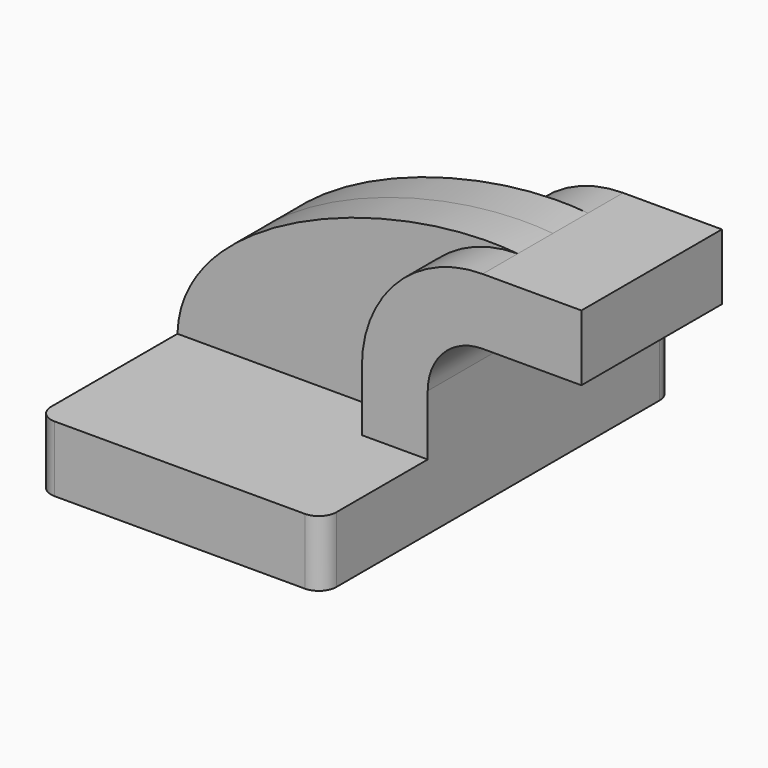
from build123d import *

# Parameters (mm, degrees)
F1_DEPTH = 63.5
F0_W     = 25.4
F0_H     = 19.05
F2_DEPTH = 25.4
F3_R     = 5.08
F4_R     = 5.08
F5_R     = 5.08
F6_DEPTH = 12.7


with BuildPart() as f1:
    # F0 (on Front) → F1 (new body, symmetric)
    with BuildSketch(Plane.XZ):
        Polygon((-41.275, -9.525), (41.275, -9.525), (41.275, -1.5385041091), (41.275, 9.525), (22.225, 9.525), (-41.275, 9.525), align=None)
    extrude(amount=F1_DEPTH, both=True)

    # F0 (on Front) → F2 (join, symmetric)
    with BuildSketch(Plane.XZ):
        with BuildLine():
            Line((22.225, 9.525), (41.275, 9.525))
            Line((41.275, 9.525), (41.275, 27.0002))
            ThreePointArc((41.275, 27.0002), (45.9246798487, 38.2255201513), (57.15, 42.8752))
            Line((57.15, 42.8752), (60.325, 42.8752))
            Line((60.325, 42.8752), (60.325, 61.9252))
            Line((60.325, 61.9252), (57.15, 61.9252))
            ThreePointArc((57.15, 61.9252), (32.4542956671, 51.6959043329), (22.225, 27.0002))
            Line((22.225, 27.0002), (22.225, 9.525))
        make_face()
        with Locations((73.025, 52.4002)):
            Rectangle(F0_W, F0_H)
    extrude(amount=F2_DEPTH, both=True)

    # F3
    f3_edges = [f1.edges().sort_by_distance(p)[0] for p in [
        (-41.275, -63.5, 0),
    ]]
    fillet(f3_edges, radius=F3_R)

    # F4
    f4_edges = [f1.edges().sort_by_distance(p)[0] for p in [
        (-41.275, 63.5, 0),
        (41.275, 63.5, 0),
    ]]
    fillet(f4_edges, radius=F4_R)

    # F5
    f5_edges = [f1.edges().sort_by_distance(p)[0] for p in [
        (41.275, -63.5, 0),
    ]]
    fillet(f5_edges, radius=F5_R)

    # F0 (on Front) → F6 (join, symmetric)
    with BuildSketch(Plane.XZ):
        with BuildLine():
            add(Edge.make_bspline(
                [(-41.275, 9.525), (-40.3253436089, 42.8752), (19.9082806389, 65.561383116), (57.15, 61.9252)],
                knots=[0, 0, 0, 0, 111.5045361635, 111.5045361635, 111.5045361635, 111.5045361635], degree=3))
            Line((-41.275, 9.525), (22.225, 9.525))
            Line((22.225, 9.525), (22.225, 27.0002))
            ThreePointArc((22.225, 27.0002), (32.4542956671, 51.6959043329), (57.15, 61.9252))
        make_face()
    extrude(amount=F6_DEPTH, both=True)


solid = f1.part
